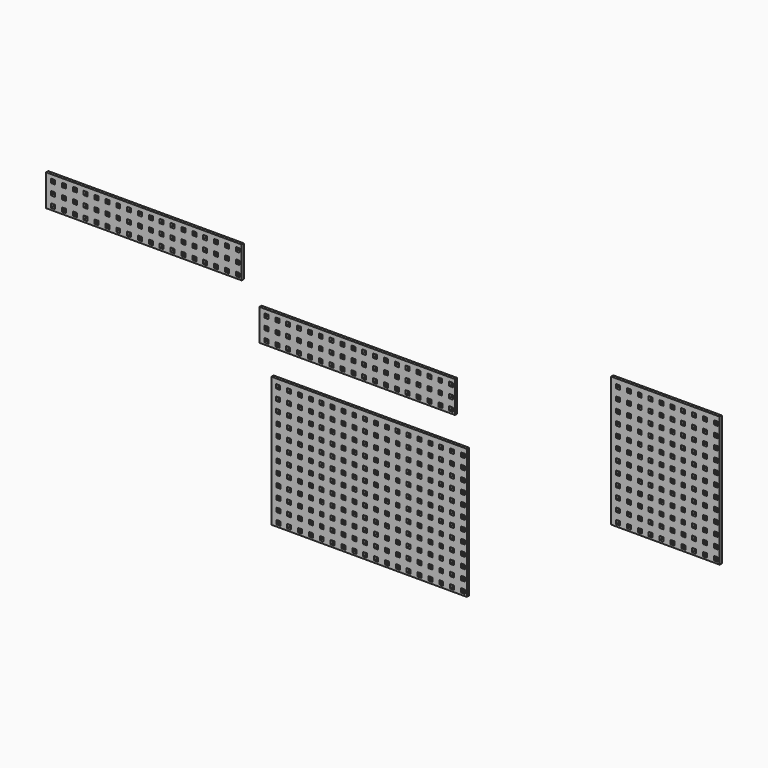
from build123d import *

# Parameters (mm, degrees)
F0_W     = 4.6228
F0_H     = 4.6228
F4_DEPTH = 3.175
F1_W     = 4.6228
F1_H     = 4.6228
F5_DEPTH = 3.175
F2_W     = 4.6228
F2_H     = 4.6228
F6_DEPTH = 3.175
F3_W     = 4.6228
F3_H     = 4.6228
F7_DEPTH = 3.175


with BuildPart() as f4:
    # F0 (on Front) → F4 (new body)
    with BuildSketch(Plane.XZ):
        Polygon((109.6749777227, 75.1479016281), (-0.5864222773, 75.1479016281), (-97.5614, 75.1479016281), (-106.8092222773, 75.1479016281), (-114.8864222773, 75.1479016281), (-114.8864222773, 71.1093016281), (-114.8864222773, -73.2134983719), (-114.8864222773, -77.2520983719), (-110.8478222773, -77.2520983719), (-0.5864222773, -77.2520983719), (113.7135777227, -77.2520983719), (113.7135777227, 75.1479016281), align=None)
        Polygon((-109.0317222773, -70.3178983719), (-104.448610891, -70.3178983719), (-104.4089222773, -70.3178983719), (-104.4089222773, -70.3199), (-104.39908, -70.3199), (-104.39908, -74.9427), (-109.02188, -74.9427), (-109.02188, -74.9406983719), (-109.0317222773, -74.9406983719), (-109.0317222773, -74.8892081406), align=None, mode=Mode.SUBTRACT)
        with Locations((-94.01048, -72.6313)):
            Rectangle(F0_W, F0_H, mode=Mode.SUBTRACT)
        Polygon((-109.071410891, -62.1872065125), (-109.071410891, -57.5644065125), (-104.448610891, -57.5644065125), (-104.448610891, -57.6072), (-104.448610891, -57.6178983719), (-104.4089222773, -57.6178983719), (-104.4089222773, -62.2406983719), (-109.0317222773, -62.2406983719), (-109.0317222773, -62.1872065125), align=None, mode=Mode.SUBTRACT)
        with Locations((-94.0203222773, -59.9292983719)):
            Rectangle(F0_W, F0_H, mode=Mode.SUBTRACT)
        with Locations((-81.31048, -72.6313)):
            Rectangle(F0_W, F0_H, mode=Mode.SUBTRACT)
        with Locations((-68.61048, -72.6313)):
            Rectangle(F0_W, F0_H, mode=Mode.SUBTRACT)
        with Locations((-81.3203222773, -59.9292983719)):
            Rectangle(F0_W, F0_H, mode=Mode.SUBTRACT)
        with Locations((-68.6203222773, -59.9292983719)):
            Rectangle(F0_W, F0_H, mode=Mode.SUBTRACT)
        Polygon((-109.0495022773, -44.9178983719), (-104.4584531682, -44.9178983719), (-104.4267022773, -44.9178983719), (-104.4267022773, -44.9199), (-104.41686, -44.9199), (-104.41686, -49.5427), (-109.03966, -49.5427), (-109.03966, -49.5406983719), (-109.0495022773, -49.5406983719), (-109.0495022773, -49.4999065125), align=None, mode=Mode.SUBTRACT)
        with Locations((-94.02826, -47.2313)):
            Rectangle(F0_W, F0_H, mode=Mode.SUBTRACT)
        with Locations((-81.32826, -47.2313)):
            Rectangle(F0_W, F0_H, mode=Mode.SUBTRACT)
        with Locations((-68.62826, -47.2313)):
            Rectangle(F0_W, F0_H, mode=Mode.SUBTRACT)
        with Locations((-55.91048, -72.6313)):
            Rectangle(F0_W, F0_H, mode=Mode.SUBTRACT)
        with Locations((-43.21048, -72.6313)):
            Rectangle(F0_W, F0_H, mode=Mode.SUBTRACT)
        with Locations((-30.51048, -72.6313)):
            Rectangle(F0_W, F0_H, mode=Mode.SUBTRACT)
        with Locations((-55.9203222773, -59.9292983719)):
            Rectangle(F0_W, F0_H, mode=Mode.SUBTRACT)
        with Locations((-43.2203222773, -59.9292983719)):
            Rectangle(F0_W, F0_H, mode=Mode.SUBTRACT)
        with Locations((-30.5203222773, -59.9292983719)):
            Rectangle(F0_W, F0_H, mode=Mode.SUBTRACT)
        with Locations((-17.81048, -72.6313)):
            Rectangle(F0_W, F0_H, mode=Mode.SUBTRACT)
        with Locations((-5.11048, -72.6313)):
            Rectangle(F0_W, F0_H, mode=Mode.SUBTRACT)
        with Locations((-17.8203222773, -59.9292983719)):
            Rectangle(F0_W, F0_H, mode=Mode.SUBTRACT)
        with Locations((-5.1203222773, -59.9292983719)):
            Rectangle(F0_W, F0_H, mode=Mode.SUBTRACT)
        with Locations((-55.92826, -47.2313)):
            Rectangle(F0_W, F0_H, mode=Mode.SUBTRACT)
        with Locations((-43.22826, -47.2313)):
            Rectangle(F0_W, F0_H, mode=Mode.SUBTRACT)
        with Locations((-30.52826, -47.2313)):
            Rectangle(F0_W, F0_H, mode=Mode.SUBTRACT)
        with Locations((-17.82826, -47.2313)):
            Rectangle(F0_W, F0_H, mode=Mode.SUBTRACT)
        with Locations((-5.12826, -47.2313)):
            Rectangle(F0_W, F0_H, mode=Mode.SUBTRACT)
        Polygon((-109.0812531682, -36.7979048843), (-109.0812531682, -32.1751048843), (-104.4584531682, -32.1751048843), (-104.4584531682, -32.2072), (-104.4584531682, -32.2178983719), (-104.4267022773, -32.2178983719), (-104.4267022773, -36.8406983719), (-109.0495022773, -36.8406983719), (-109.0495022773, -36.7979048843), align=None, mode=Mode.SUBTRACT)
        with Locations((-94.0381022773, -34.5292983719)):
            Rectangle(F0_W, F0_H, mode=Mode.SUBTRACT)
        Polygon((-109.0672822773, -19.5178983719), (-104.4682954455, -19.5178983719), (-104.4444822773, -19.5178983719), (-104.4444822773, -19.5199), (-104.43464, -19.5199), (-104.43464, -24.1427), (-109.05744, -24.1427), (-109.05744, -24.1406983719), (-109.0672822773, -24.1406983719), (-109.0672822773, -24.1106048843), align=None, mode=Mode.SUBTRACT)
        with Locations((-94.04604, -21.8313)):
            Rectangle(F0_W, F0_H, mode=Mode.SUBTRACT)
        with Locations((-81.3381022773, -34.5292983719)):
            Rectangle(F0_W, F0_H, mode=Mode.SUBTRACT)
        with Locations((-68.6381022773, -34.5292983719)):
            Rectangle(F0_W, F0_H, mode=Mode.SUBTRACT)
        with Locations((-81.34604, -21.8313)):
            Rectangle(F0_W, F0_H, mode=Mode.SUBTRACT)
        with Locations((-68.64604, -21.8313)):
            Rectangle(F0_W, F0_H, mode=Mode.SUBTRACT)
        Polygon((-109.0910954455, -11.4086032562), (-109.0910954455, -6.7858032562), (-104.4682954455, -6.7858032562), (-104.4682954455, -6.8072), (-104.4682954455, -6.8178983719), (-104.4444822773, -6.8178983719), (-104.4444822773, -11.4406983719), (-109.0672822773, -11.4406983719), (-109.0672822773, -11.4086032562), align=None, mode=Mode.SUBTRACT)
        with Locations((-94.0558822773, -9.1292983719)):
            Rectangle(F0_W, F0_H, mode=Mode.SUBTRACT)
        with Locations((-81.3558822773, -9.1292983719)):
            Rectangle(F0_W, F0_H, mode=Mode.SUBTRACT)
        with Locations((-68.6558822773, -9.1292983719)):
            Rectangle(F0_W, F0_H, mode=Mode.SUBTRACT)
        with Locations((-55.9381022773, -34.5292983719)):
            Rectangle(F0_W, F0_H, mode=Mode.SUBTRACT)
        with Locations((-43.2381022773, -34.5292983719)):
            Rectangle(F0_W, F0_H, mode=Mode.SUBTRACT)
        with Locations((-30.5381022773, -34.5292983719)):
            Rectangle(F0_W, F0_H, mode=Mode.SUBTRACT)
        with Locations((-55.94604, -21.8313)):
            Rectangle(F0_W, F0_H, mode=Mode.SUBTRACT)
        with Locations((-43.24604, -21.8313)):
            Rectangle(F0_W, F0_H, mode=Mode.SUBTRACT)
        with Locations((-30.54604, -21.8313)):
            Rectangle(F0_W, F0_H, mode=Mode.SUBTRACT)
        with Locations((-17.8381022773, -34.5292983719)):
            Rectangle(F0_W, F0_H, mode=Mode.SUBTRACT)
        with Locations((-5.1381022773, -34.5292983719)):
            Rectangle(F0_W, F0_H, mode=Mode.SUBTRACT)
        with Locations((-17.84604, -21.8313)):
            Rectangle(F0_W, F0_H, mode=Mode.SUBTRACT)
        with Locations((-5.14604, -21.8313)):
            Rectangle(F0_W, F0_H, mode=Mode.SUBTRACT)
        with Locations((-55.9558822773, -9.1292983719)):
            Rectangle(F0_W, F0_H, mode=Mode.SUBTRACT)
        with Locations((-43.2558822773, -9.1292983719)):
            Rectangle(F0_W, F0_H, mode=Mode.SUBTRACT)
        with Locations((-30.5558822773, -9.1292983719)):
            Rectangle(F0_W, F0_H, mode=Mode.SUBTRACT)
        with Locations((-17.8558822773, -9.1292983719)):
            Rectangle(F0_W, F0_H, mode=Mode.SUBTRACT)
        with Locations((-5.1558822773, -9.1292983719)):
            Rectangle(F0_W, F0_H, mode=Mode.SUBTRACT)
        with Locations((7.58952, -72.6313)):
            Rectangle(F0_W, F0_H, mode=Mode.SUBTRACT)
        with Locations((20.28952, -72.6313)):
            Rectangle(F0_W, F0_H, mode=Mode.SUBTRACT)
        with Locations((7.5796777227, -59.9292983719)):
            Rectangle(F0_W, F0_H, mode=Mode.SUBTRACT)
        with Locations((20.2796777227, -59.9292983719)):
            Rectangle(F0_W, F0_H, mode=Mode.SUBTRACT)
        with Locations((32.98952, -72.6313)):
            Rectangle(F0_W, F0_H, mode=Mode.SUBTRACT)
        with Locations((45.68952, -72.6313)):
            Rectangle(F0_W, F0_H, mode=Mode.SUBTRACT)
        with Locations((32.9796777227, -59.9292983719)):
            Rectangle(F0_W, F0_H, mode=Mode.SUBTRACT)
        with Locations((45.6796777227, -59.9292983719)):
            Rectangle(F0_W, F0_H, mode=Mode.SUBTRACT)
        with Locations((7.57174, -47.2313)):
            Rectangle(F0_W, F0_H, mode=Mode.SUBTRACT)
        with Locations((20.27174, -47.2313)):
            Rectangle(F0_W, F0_H, mode=Mode.SUBTRACT)
        with Locations((32.97174, -47.2313)):
            Rectangle(F0_W, F0_H, mode=Mode.SUBTRACT)
        with Locations((45.67174, -47.2313)):
            Rectangle(F0_W, F0_H, mode=Mode.SUBTRACT)
        with Locations((58.38952, -72.6313)):
            Rectangle(F0_W, F0_H, mode=Mode.SUBTRACT)
        with Locations((71.08952, -72.6313)):
            Rectangle(F0_W, F0_H, mode=Mode.SUBTRACT)
        with Locations((83.78952, -72.6313)):
            Rectangle(F0_W, F0_H, mode=Mode.SUBTRACT)
        with Locations((58.3796777227, -59.9292983719)):
            Rectangle(F0_W, F0_H, mode=Mode.SUBTRACT)
        with Locations((71.0796777227, -59.9292983719)):
            Rectangle(F0_W, F0_H, mode=Mode.SUBTRACT)
        with Locations((83.7796777227, -59.9292983719)):
            Rectangle(F0_W, F0_H, mode=Mode.SUBTRACT)
        with Locations((96.48952, -72.6313)):
            Rectangle(F0_W, F0_H, mode=Mode.SUBTRACT)
        with Locations((109.18952, -72.6313)):
            Rectangle(F0_W, F0_H, mode=Mode.SUBTRACT)
        with Locations((96.4796777227, -59.9292983719)):
            Rectangle(F0_W, F0_H, mode=Mode.SUBTRACT)
        with Locations((109.1796777227, -59.9292983719)):
            Rectangle(F0_W, F0_H, mode=Mode.SUBTRACT)
        with Locations((58.37174, -47.2313)):
            Rectangle(F0_W, F0_H, mode=Mode.SUBTRACT)
        with Locations((71.07174, -47.2313)):
            Rectangle(F0_W, F0_H, mode=Mode.SUBTRACT)
        with Locations((83.77174, -47.2313)):
            Rectangle(F0_W, F0_H, mode=Mode.SUBTRACT)
        with Locations((96.47174, -47.2313)):
            Rectangle(F0_W, F0_H, mode=Mode.SUBTRACT)
        with Locations((109.17174, -47.2313)):
            Rectangle(F0_W, F0_H, mode=Mode.SUBTRACT)
        with Locations((7.5618977227, -34.5292983719)):
            Rectangle(F0_W, F0_H, mode=Mode.SUBTRACT)
        with Locations((20.2618977227, -34.5292983719)):
            Rectangle(F0_W, F0_H, mode=Mode.SUBTRACT)
        with Locations((7.55396, -21.8313)):
            Rectangle(F0_W, F0_H, mode=Mode.SUBTRACT)
        with Locations((20.25396, -21.8313)):
            Rectangle(F0_W, F0_H, mode=Mode.SUBTRACT)
        with Locations((32.9618977227, -34.5292983719)):
            Rectangle(F0_W, F0_H, mode=Mode.SUBTRACT)
        with Locations((45.6618977227, -34.5292983719)):
            Rectangle(F0_W, F0_H, mode=Mode.SUBTRACT)
        with Locations((32.95396, -21.8313)):
            Rectangle(F0_W, F0_H, mode=Mode.SUBTRACT)
        with Locations((45.65396, -21.8313)):
            Rectangle(F0_W, F0_H, mode=Mode.SUBTRACT)
        with Locations((7.5441177227, -9.1292983719)):
            Rectangle(F0_W, F0_H, mode=Mode.SUBTRACT)
        with Locations((20.2441177227, -9.1292983719)):
            Rectangle(F0_W, F0_H, mode=Mode.SUBTRACT)
        with Locations((32.9441177227, -9.1292983719)):
            Rectangle(F0_W, F0_H, mode=Mode.SUBTRACT)
        with Locations((45.6441177227, -9.1292983719)):
            Rectangle(F0_W, F0_H, mode=Mode.SUBTRACT)
        with Locations((58.3618977227, -34.5292983719)):
            Rectangle(F0_W, F0_H, mode=Mode.SUBTRACT)
        with Locations((71.0618977227, -34.5292983719)):
            Rectangle(F0_W, F0_H, mode=Mode.SUBTRACT)
        with Locations((83.7618977227, -34.5292983719)):
            Rectangle(F0_W, F0_H, mode=Mode.SUBTRACT)
        with Locations((58.35396, -21.8313)):
            Rectangle(F0_W, F0_H, mode=Mode.SUBTRACT)
        with Locations((71.05396, -21.8313)):
            Rectangle(F0_W, F0_H, mode=Mode.SUBTRACT)
        with Locations((83.75396, -21.8313)):
            Rectangle(F0_W, F0_H, mode=Mode.SUBTRACT)
        with Locations((96.4618977227, -34.5292983719)):
            Rectangle(F0_W, F0_H, mode=Mode.SUBTRACT)
        with Locations((109.1618977227, -34.5292983719)):
            Rectangle(F0_W, F0_H, mode=Mode.SUBTRACT)
        with Locations((96.45396, -21.8313)):
            Rectangle(F0_W, F0_H, mode=Mode.SUBTRACT)
        with Locations((109.15396, -21.8313)):
            Rectangle(F0_W, F0_H, mode=Mode.SUBTRACT)
        with Locations((58.3441177227, -9.1292983719)):
            Rectangle(F0_W, F0_H, mode=Mode.SUBTRACT)
        with Locations((71.0441177227, -9.1292983719)):
            Rectangle(F0_W, F0_H, mode=Mode.SUBTRACT)
        with Locations((83.7441177227, -9.1292983719)):
            Rectangle(F0_W, F0_H, mode=Mode.SUBTRACT)
        with Locations((96.4441177227, -9.1292983719)):
            Rectangle(F0_W, F0_H, mode=Mode.SUBTRACT)
        with Locations((109.1441177227, -9.1292983719)):
            Rectangle(F0_W, F0_H, mode=Mode.SUBTRACT)
        Polygon((-109.0850622773, 5.8821016281), (-104.4781377227, 5.8821016281), (-104.4622622773, 5.8821016281), (-104.4622622773, 5.8801), (-104.45242, 5.8801), (-104.45242, 1.2573), (-109.07522, 1.2573), (-109.07522, 1.2593016281), (-109.0850622773, 1.2593016281), (-109.0850622773, 1.2786967438), align=None, mode=Mode.SUBTRACT)
        with Locations((-94.06382, 3.5687)):
            Rectangle(F0_W, F0_H, mode=Mode.SUBTRACT)
        Polygon((-109.1009377227, 13.9806983719), (-109.1009377227, 18.6034983719), (-104.4781377227, 18.6034983719), (-104.4781377227, 18.5928), (-104.4781377227, 18.5821016281), (-104.4622622773, 18.5821016281), (-104.4622622773, 13.9593016281), (-109.0850622773, 13.9593016281), (-109.0850622773, 13.9806983719), align=None, mode=Mode.SUBTRACT)
        with Locations((-94.0736622773, 16.2707016281)):
            Rectangle(F0_W, F0_H, mode=Mode.SUBTRACT)
        with Locations((-81.36382, 3.5687)):
            Rectangle(F0_W, F0_H, mode=Mode.SUBTRACT)
        with Locations((-68.66382, 3.5687)):
            Rectangle(F0_W, F0_H, mode=Mode.SUBTRACT)
        with Locations((-81.3736622773, 16.2707016281)):
            Rectangle(F0_W, F0_H, mode=Mode.SUBTRACT)
        with Locations((-68.6736622773, 16.2707016281)):
            Rectangle(F0_W, F0_H, mode=Mode.SUBTRACT)
        Polygon((-109.1028422773, 31.2821016281), (-104.48798, 31.2821016281), (-104.4800422773, 31.2821016281), (-104.4800422773, 31.2801), (-104.4702, 31.2801), (-104.4702, 26.6573), (-109.093, 26.6573), (-109.093, 26.6593016281), (-109.1028422773, 26.6593016281), align=None, mode=Mode.SUBTRACT)
        with Locations((-94.0816, 28.9687)):
            Rectangle(F0_W, F0_H, mode=Mode.SUBTRACT)
        with Locations((-81.3816, 28.9687)):
            Rectangle(F0_W, F0_H, mode=Mode.SUBTRACT)
        with Locations((-68.6816, 28.9687)):
            Rectangle(F0_W, F0_H, mode=Mode.SUBTRACT)
        with Locations((-55.96382, 3.5687)):
            Rectangle(F0_W, F0_H, mode=Mode.SUBTRACT)
        with Locations((-43.26382, 3.5687)):
            Rectangle(F0_W, F0_H, mode=Mode.SUBTRACT)
        with Locations((-30.56382, 3.5687)):
            Rectangle(F0_W, F0_H, mode=Mode.SUBTRACT)
        with Locations((-55.9736622773, 16.2707016281)):
            Rectangle(F0_W, F0_H, mode=Mode.SUBTRACT)
        with Locations((-43.2736622773, 16.2707016281)):
            Rectangle(F0_W, F0_H, mode=Mode.SUBTRACT)
        with Locations((-30.5736622773, 16.2707016281)):
            Rectangle(F0_W, F0_H, mode=Mode.SUBTRACT)
        with Locations((-17.86382, 3.5687)):
            Rectangle(F0_W, F0_H, mode=Mode.SUBTRACT)
        with Locations((-5.16382, 3.5687)):
            Rectangle(F0_W, F0_H, mode=Mode.SUBTRACT)
        with Locations((-17.8736622773, 16.2707016281)):
            Rectangle(F0_W, F0_H, mode=Mode.SUBTRACT)
        with Locations((-5.1736622773, 16.2707016281)):
            Rectangle(F0_W, F0_H, mode=Mode.SUBTRACT)
        with Locations((-55.9816, 28.9687)):
            Rectangle(F0_W, F0_H, mode=Mode.SUBTRACT)
        with Locations((-43.2816, 28.9687)):
            Rectangle(F0_W, F0_H, mode=Mode.SUBTRACT)
        with Locations((-30.5816, 28.9687)):
            Rectangle(F0_W, F0_H, mode=Mode.SUBTRACT)
        with Locations((-17.8816, 28.9687)):
            Rectangle(F0_W, F0_H, mode=Mode.SUBTRACT)
        with Locations((-5.1816, 28.9687)):
            Rectangle(F0_W, F0_H, mode=Mode.SUBTRACT)
        Polygon((-109.11078, 39.37), (-109.11078, 43.9928), (-104.48798, 43.9928), (-104.48798, 43.9821016281), (-104.4800422773, 43.9821016281), (-104.4800422773, 39.3593016281), (-109.1028422773, 39.3593016281), (-109.1028422773, 39.37), align=None, mode=Mode.SUBTRACT)
        with Locations((-94.0914422773, 41.6707016281)):
            Rectangle(F0_W, F0_H, mode=Mode.SUBTRACT)
        Polygon((-109.1206222773, 52.0593016281), (-109.1206222773, 56.6821016281), (-104.4978222773, 56.6821016281), (-104.4978222773, 56.6801), (-104.48798, 56.6801), (-104.48798, 52.0573), (-109.11078, 52.0573), (-109.11078, 52.0593016281), align=None, mode=Mode.SUBTRACT)
        with Locations((-94.09938, 54.3687)):
            Rectangle(F0_W, F0_H, mode=Mode.SUBTRACT)
        with Locations((-81.3914422773, 41.6707016281)):
            Rectangle(F0_W, F0_H, mode=Mode.SUBTRACT)
        with Locations((-68.6914422773, 41.6707016281)):
            Rectangle(F0_W, F0_H, mode=Mode.SUBTRACT)
        with Locations((-81.39938, 54.3687)):
            Rectangle(F0_W, F0_H, mode=Mode.SUBTRACT)
        with Locations((-68.69938, 54.3687)):
            Rectangle(F0_W, F0_H, mode=Mode.SUBTRACT)
        with Locations((-106.8092222773, 67.0707016281)):
            Rectangle(F0_W, F0_H, mode=Mode.SUBTRACT)
        with Locations((-94.1092222773, 67.0707016281)):
            Rectangle(F0_W, F0_H, mode=Mode.SUBTRACT)
        with Locations((-81.4092222773, 67.0707016281)):
            Rectangle(F0_W, F0_H, mode=Mode.SUBTRACT)
        with Locations((-68.7092222773, 67.0707016281)):
            Rectangle(F0_W, F0_H, mode=Mode.SUBTRACT)
        with Locations((-55.9914422773, 41.6707016281)):
            Rectangle(F0_W, F0_H, mode=Mode.SUBTRACT)
        with Locations((-43.2914422773, 41.6707016281)):
            Rectangle(F0_W, F0_H, mode=Mode.SUBTRACT)
        with Locations((-30.5914422773, 41.6707016281)):
            Rectangle(F0_W, F0_H, mode=Mode.SUBTRACT)
        with Locations((-55.99938, 54.3687)):
            Rectangle(F0_W, F0_H, mode=Mode.SUBTRACT)
        with Locations((-43.29938, 54.3687)):
            Rectangle(F0_W, F0_H, mode=Mode.SUBTRACT)
        with Locations((-30.59938, 54.3687)):
            Rectangle(F0_W, F0_H, mode=Mode.SUBTRACT)
        with Locations((-17.8914422773, 41.6707016281)):
            Rectangle(F0_W, F0_H, mode=Mode.SUBTRACT)
        with Locations((-5.1914422773, 41.6707016281)):
            Rectangle(F0_W, F0_H, mode=Mode.SUBTRACT)
        with Locations((-17.89938, 54.3687)):
            Rectangle(F0_W, F0_H, mode=Mode.SUBTRACT)
        with Locations((-5.19938, 54.3687)):
            Rectangle(F0_W, F0_H, mode=Mode.SUBTRACT)
        with Locations((-56.0092222773, 67.0707016281)):
            Rectangle(F0_W, F0_H, mode=Mode.SUBTRACT)
        with Locations((-43.3092222773, 67.0707016281)):
            Rectangle(F0_W, F0_H, mode=Mode.SUBTRACT)
        with Locations((-30.6092222773, 67.0707016281)):
            Rectangle(F0_W, F0_H, mode=Mode.SUBTRACT)
        with Locations((-17.9092222773, 67.0707016281)):
            Rectangle(F0_W, F0_H, mode=Mode.SUBTRACT)
        with Locations((-5.2092222773, 67.0707016281)):
            Rectangle(F0_W, F0_H, mode=Mode.SUBTRACT)
        with Locations((7.53618, 3.5687)):
            Rectangle(F0_W, F0_H, mode=Mode.SUBTRACT)
        with Locations((20.23618, 3.5687)):
            Rectangle(F0_W, F0_H, mode=Mode.SUBTRACT)
        with Locations((7.5263377227, 16.2707016281)):
            Rectangle(F0_W, F0_H, mode=Mode.SUBTRACT)
        with Locations((20.2263377227, 16.2707016281)):
            Rectangle(F0_W, F0_H, mode=Mode.SUBTRACT)
        with Locations((32.93618, 3.5687)):
            Rectangle(F0_W, F0_H, mode=Mode.SUBTRACT)
        with Locations((45.63618, 3.5687)):
            Rectangle(F0_W, F0_H, mode=Mode.SUBTRACT)
        with Locations((32.9263377227, 16.2707016281)):
            Rectangle(F0_W, F0_H, mode=Mode.SUBTRACT)
        with Locations((45.6263377227, 16.2707016281)):
            Rectangle(F0_W, F0_H, mode=Mode.SUBTRACT)
        with Locations((7.5184, 28.9687)):
            Rectangle(F0_W, F0_H, mode=Mode.SUBTRACT)
        with Locations((20.2184, 28.9687)):
            Rectangle(F0_W, F0_H, mode=Mode.SUBTRACT)
        with Locations((32.9184, 28.9687)):
            Rectangle(F0_W, F0_H, mode=Mode.SUBTRACT)
        with Locations((45.6184, 28.9687)):
            Rectangle(F0_W, F0_H, mode=Mode.SUBTRACT)
        with Locations((58.33618, 3.5687)):
            Rectangle(F0_W, F0_H, mode=Mode.SUBTRACT)
        with Locations((71.03618, 3.5687)):
            Rectangle(F0_W, F0_H, mode=Mode.SUBTRACT)
        with Locations((83.73618, 3.5687)):
            Rectangle(F0_W, F0_H, mode=Mode.SUBTRACT)
        with Locations((58.3263377227, 16.2707016281)):
            Rectangle(F0_W, F0_H, mode=Mode.SUBTRACT)
        with Locations((71.0263377227, 16.2707016281)):
            Rectangle(F0_W, F0_H, mode=Mode.SUBTRACT)
        with Locations((83.7263377227, 16.2707016281)):
            Rectangle(F0_W, F0_H, mode=Mode.SUBTRACT)
        with Locations((96.43618, 3.5687)):
            Rectangle(F0_W, F0_H, mode=Mode.SUBTRACT)
        with Locations((109.13618, 3.5687)):
            Rectangle(F0_W, F0_H, mode=Mode.SUBTRACT)
        with Locations((96.4263377227, 16.2707016281)):
            Rectangle(F0_W, F0_H, mode=Mode.SUBTRACT)
        with Locations((109.1263377227, 16.2707016281)):
            Rectangle(F0_W, F0_H, mode=Mode.SUBTRACT)
        with Locations((58.3184, 28.9687)):
            Rectangle(F0_W, F0_H, mode=Mode.SUBTRACT)
        with Locations((71.0184, 28.9687)):
            Rectangle(F0_W, F0_H, mode=Mode.SUBTRACT)
        with Locations((83.7184, 28.9687)):
            Rectangle(F0_W, F0_H, mode=Mode.SUBTRACT)
        with Locations((96.4184, 28.9687)):
            Rectangle(F0_W, F0_H, mode=Mode.SUBTRACT)
        with Locations((109.1184, 28.9687)):
            Rectangle(F0_W, F0_H, mode=Mode.SUBTRACT)
        with Locations((7.5085577227, 41.6707016281)):
            Rectangle(F0_W, F0_H, mode=Mode.SUBTRACT)
        with Locations((20.2085577227, 41.6707016281)):
            Rectangle(F0_W, F0_H, mode=Mode.SUBTRACT)
        with Locations((7.50062, 54.3687)):
            Rectangle(F0_W, F0_H, mode=Mode.SUBTRACT)
        with Locations((20.20062, 54.3687)):
            Rectangle(F0_W, F0_H, mode=Mode.SUBTRACT)
        with Locations((32.9085577227, 41.6707016281)):
            Rectangle(F0_W, F0_H, mode=Mode.SUBTRACT)
        with Locations((45.6085577227, 41.6707016281)):
            Rectangle(F0_W, F0_H, mode=Mode.SUBTRACT)
        with Locations((32.90062, 54.3687)):
            Rectangle(F0_W, F0_H, mode=Mode.SUBTRACT)
        with Locations((45.60062, 54.3687)):
            Rectangle(F0_W, F0_H, mode=Mode.SUBTRACT)
        with Locations((7.4907777227, 67.0707016281)):
            Rectangle(F0_W, F0_H, mode=Mode.SUBTRACT)
        with Locations((20.1907777227, 67.0707016281)):
            Rectangle(F0_W, F0_H, mode=Mode.SUBTRACT)
        with Locations((32.8907777227, 67.0707016281)):
            Rectangle(F0_W, F0_H, mode=Mode.SUBTRACT)
        with Locations((45.5907777227, 67.0707016281)):
            Rectangle(F0_W, F0_H, mode=Mode.SUBTRACT)
        with Locations((58.3085577227, 41.6707016281)):
            Rectangle(F0_W, F0_H, mode=Mode.SUBTRACT)
        with Locations((71.0085577227, 41.6707016281)):
            Rectangle(F0_W, F0_H, mode=Mode.SUBTRACT)
        with Locations((83.7085577227, 41.6707016281)):
            Rectangle(F0_W, F0_H, mode=Mode.SUBTRACT)
        with Locations((58.30062, 54.3687)):
            Rectangle(F0_W, F0_H, mode=Mode.SUBTRACT)
        with Locations((71.00062, 54.3687)):
            Rectangle(F0_W, F0_H, mode=Mode.SUBTRACT)
        with Locations((83.70062, 54.3687)):
            Rectangle(F0_W, F0_H, mode=Mode.SUBTRACT)
        with Locations((96.4085577227, 41.6707016281)):
            Rectangle(F0_W, F0_H, mode=Mode.SUBTRACT)
        with Locations((109.1085577227, 41.6707016281)):
            Rectangle(F0_W, F0_H, mode=Mode.SUBTRACT)
        with Locations((96.40062, 54.3687)):
            Rectangle(F0_W, F0_H, mode=Mode.SUBTRACT)
        with Locations((109.10062, 54.3687)):
            Rectangle(F0_W, F0_H, mode=Mode.SUBTRACT)
        with Locations((58.2907777227, 67.0707016281)):
            Rectangle(F0_W, F0_H, mode=Mode.SUBTRACT)
        with Locations((70.9907777227, 67.0707016281)):
            Rectangle(F0_W, F0_H, mode=Mode.SUBTRACT)
        with Locations((83.6907777227, 67.0707016281)):
            Rectangle(F0_W, F0_H, mode=Mode.SUBTRACT)
        with Locations((96.3907777227, 67.0707016281)):
            Rectangle(F0_W, F0_H, mode=Mode.SUBTRACT)
        with Locations((109.0907777227, 67.0707016281)):
            Rectangle(F0_W, F0_H, mode=Mode.SUBTRACT)
    extrude(amount=F4_DEPTH)


with BuildPart() as f5:
    # F1 (on Front) → F5 (new body)
    with BuildSketch(Plane.XZ):
        Polygon((405.2820646157, 204.409342295), (295.0206646157, 204.409342295), (282.3206646157, 204.409342295), (282.3206646157, 52.009342295), (295.0206646157, 52.009342295), (409.3206646157, 52.009342295), (409.3206646157, 204.409342295), align=None)
        with Locations((290.496606893, 56.6301406669)):
            Rectangle(F1_W, F1_H, mode=Mode.SUBTRACT)
        with Locations((290.4867646157, 69.332142295)):
            Rectangle(F1_W, F1_H, mode=Mode.SUBTRACT)
        with Locations((303.196606893, 56.6301406669)):
            Rectangle(F1_W, F1_H, mode=Mode.SUBTRACT)
        with Locations((303.1867646157, 69.332142295)):
            Rectangle(F1_W, F1_H, mode=Mode.SUBTRACT)
        with Locations((290.478826893, 82.0301406669)):
            Rectangle(F1_W, F1_H, mode=Mode.SUBTRACT)
        with Locations((303.178826893, 82.0301406669)):
            Rectangle(F1_W, F1_H, mode=Mode.SUBTRACT)
        with Locations((315.896606893, 56.6301406669)):
            Rectangle(F1_W, F1_H, mode=Mode.SUBTRACT)
        with Locations((328.596606893, 56.6301406669)):
            Rectangle(F1_W, F1_H, mode=Mode.SUBTRACT)
        with Locations((315.8867646157, 69.332142295)):
            Rectangle(F1_W, F1_H, mode=Mode.SUBTRACT)
        with Locations((328.5867646157, 69.332142295)):
            Rectangle(F1_W, F1_H, mode=Mode.SUBTRACT)
        with Locations((341.296606893, 56.6301406669)):
            Rectangle(F1_W, F1_H, mode=Mode.SUBTRACT)
        with Locations((341.2867646157, 69.332142295)):
            Rectangle(F1_W, F1_H, mode=Mode.SUBTRACT)
        with Locations((315.878826893, 82.0301406669)):
            Rectangle(F1_W, F1_H, mode=Mode.SUBTRACT)
        with Locations((328.578826893, 82.0301406669)):
            Rectangle(F1_W, F1_H, mode=Mode.SUBTRACT)
        with Locations((341.278826893, 82.0301406669)):
            Rectangle(F1_W, F1_H, mode=Mode.SUBTRACT)
        with Locations((290.4689846157, 94.732142295)):
            Rectangle(F1_W, F1_H, mode=Mode.SUBTRACT)
        with Locations((290.461046893, 107.4301406669)):
            Rectangle(F1_W, F1_H, mode=Mode.SUBTRACT)
        with Locations((303.1689846157, 94.732142295)):
            Rectangle(F1_W, F1_H, mode=Mode.SUBTRACT)
        with Locations((303.161046893, 107.4301406669)):
            Rectangle(F1_W, F1_H, mode=Mode.SUBTRACT)
        with Locations((290.4512046157, 120.132142295)):
            Rectangle(F1_W, F1_H, mode=Mode.SUBTRACT)
        with Locations((303.1512046157, 120.132142295)):
            Rectangle(F1_W, F1_H, mode=Mode.SUBTRACT)
        with Locations((315.8689846157, 94.732142295)):
            Rectangle(F1_W, F1_H, mode=Mode.SUBTRACT)
        with Locations((328.5689846157, 94.732142295)):
            Rectangle(F1_W, F1_H, mode=Mode.SUBTRACT)
        with Locations((315.861046893, 107.4301406669)):
            Rectangle(F1_W, F1_H, mode=Mode.SUBTRACT)
        with Locations((328.561046893, 107.4301406669)):
            Rectangle(F1_W, F1_H, mode=Mode.SUBTRACT)
        with Locations((341.2689846157, 94.732142295)):
            Rectangle(F1_W, F1_H, mode=Mode.SUBTRACT)
        with Locations((341.261046893, 107.4301406669)):
            Rectangle(F1_W, F1_H, mode=Mode.SUBTRACT)
        with Locations((315.8512046157, 120.132142295)):
            Rectangle(F1_W, F1_H, mode=Mode.SUBTRACT)
        with Locations((328.5512046157, 120.132142295)):
            Rectangle(F1_W, F1_H, mode=Mode.SUBTRACT)
        with Locations((341.2512046157, 120.132142295)):
            Rectangle(F1_W, F1_H, mode=Mode.SUBTRACT)
        with Locations((353.996606893, 56.6301406669)):
            Rectangle(F1_W, F1_H, mode=Mode.SUBTRACT)
        with Locations((353.9867646157, 69.332142295)):
            Rectangle(F1_W, F1_H, mode=Mode.SUBTRACT)
        with Locations((366.696606893, 56.6301406669)):
            Rectangle(F1_W, F1_H, mode=Mode.SUBTRACT)
        with Locations((366.6867646157, 69.332142295)):
            Rectangle(F1_W, F1_H, mode=Mode.SUBTRACT)
        with Locations((353.978826893, 82.0301406669)):
            Rectangle(F1_W, F1_H, mode=Mode.SUBTRACT)
        with Locations((366.678826893, 82.0301406669)):
            Rectangle(F1_W, F1_H, mode=Mode.SUBTRACT)
        with Locations((379.396606893, 56.6301406669)):
            Rectangle(F1_W, F1_H, mode=Mode.SUBTRACT)
        with Locations((392.096606893, 56.6301406669)):
            Rectangle(F1_W, F1_H, mode=Mode.SUBTRACT)
        with Locations((379.3867646157, 69.332142295)):
            Rectangle(F1_W, F1_H, mode=Mode.SUBTRACT)
        with Locations((392.0867646157, 69.332142295)):
            Rectangle(F1_W, F1_H, mode=Mode.SUBTRACT)
        with Locations((404.796606893, 56.6301406669)):
            Rectangle(F1_W, F1_H, mode=Mode.SUBTRACT)
        with Locations((404.7867646157, 69.332142295)):
            Rectangle(F1_W, F1_H, mode=Mode.SUBTRACT)
        with Locations((379.378826893, 82.0301406669)):
            Rectangle(F1_W, F1_H, mode=Mode.SUBTRACT)
        with Locations((392.078826893, 82.0301406669)):
            Rectangle(F1_W, F1_H, mode=Mode.SUBTRACT)
        with Locations((404.778826893, 82.0301406669)):
            Rectangle(F1_W, F1_H, mode=Mode.SUBTRACT)
        with Locations((353.9689846157, 94.732142295)):
            Rectangle(F1_W, F1_H, mode=Mode.SUBTRACT)
        with Locations((353.961046893, 107.4301406669)):
            Rectangle(F1_W, F1_H, mode=Mode.SUBTRACT)
        with Locations((366.6689846157, 94.732142295)):
            Rectangle(F1_W, F1_H, mode=Mode.SUBTRACT)
        with Locations((366.661046893, 107.4301406669)):
            Rectangle(F1_W, F1_H, mode=Mode.SUBTRACT)
        with Locations((353.9512046157, 120.132142295)):
            Rectangle(F1_W, F1_H, mode=Mode.SUBTRACT)
        with Locations((366.6512046157, 120.132142295)):
            Rectangle(F1_W, F1_H, mode=Mode.SUBTRACT)
        with Locations((379.3689846157, 94.732142295)):
            Rectangle(F1_W, F1_H, mode=Mode.SUBTRACT)
        with Locations((392.0689846157, 94.732142295)):
            Rectangle(F1_W, F1_H, mode=Mode.SUBTRACT)
        with Locations((379.361046893, 107.4301406669)):
            Rectangle(F1_W, F1_H, mode=Mode.SUBTRACT)
        with Locations((392.061046893, 107.4301406669)):
            Rectangle(F1_W, F1_H, mode=Mode.SUBTRACT)
        with Locations((404.7689846157, 94.732142295)):
            Rectangle(F1_W, F1_H, mode=Mode.SUBTRACT)
        with Locations((404.761046893, 107.4301406669)):
            Rectangle(F1_W, F1_H, mode=Mode.SUBTRACT)
        with Locations((379.3512046157, 120.132142295)):
            Rectangle(F1_W, F1_H, mode=Mode.SUBTRACT)
        with Locations((392.0512046157, 120.132142295)):
            Rectangle(F1_W, F1_H, mode=Mode.SUBTRACT)
        with Locations((404.7512046157, 120.132142295)):
            Rectangle(F1_W, F1_H, mode=Mode.SUBTRACT)
        with Locations((290.443266893, 132.8301406669)):
            Rectangle(F1_W, F1_H, mode=Mode.SUBTRACT)
        with Locations((290.4334246157, 145.532142295)):
            Rectangle(F1_W, F1_H, mode=Mode.SUBTRACT)
        with Locations((303.143266893, 132.8301406669)):
            Rectangle(F1_W, F1_H, mode=Mode.SUBTRACT)
        with Locations((303.1334246157, 145.532142295)):
            Rectangle(F1_W, F1_H, mode=Mode.SUBTRACT)
        with Locations((290.425486893, 158.2301406669)):
            Rectangle(F1_W, F1_H, mode=Mode.SUBTRACT)
        with Locations((303.125486893, 158.2301406669)):
            Rectangle(F1_W, F1_H, mode=Mode.SUBTRACT)
        with Locations((315.843266893, 132.8301406669)):
            Rectangle(F1_W, F1_H, mode=Mode.SUBTRACT)
        with Locations((328.543266893, 132.8301406669)):
            Rectangle(F1_W, F1_H, mode=Mode.SUBTRACT)
        with Locations((315.8334246157, 145.532142295)):
            Rectangle(F1_W, F1_H, mode=Mode.SUBTRACT)
        with Locations((328.5334246157, 145.532142295)):
            Rectangle(F1_W, F1_H, mode=Mode.SUBTRACT)
        with Locations((341.243266893, 132.8301406669)):
            Rectangle(F1_W, F1_H, mode=Mode.SUBTRACT)
        with Locations((341.2334246157, 145.532142295)):
            Rectangle(F1_W, F1_H, mode=Mode.SUBTRACT)
        with Locations((315.825486893, 158.2301406669)):
            Rectangle(F1_W, F1_H, mode=Mode.SUBTRACT)
        with Locations((328.525486893, 158.2301406669)):
            Rectangle(F1_W, F1_H, mode=Mode.SUBTRACT)
        with Locations((341.225486893, 158.2301406669)):
            Rectangle(F1_W, F1_H, mode=Mode.SUBTRACT)
        with Locations((290.4156446157, 170.932142295)):
            Rectangle(F1_W, F1_H, mode=Mode.SUBTRACT)
        with Locations((290.407706893, 183.6301406669)):
            Rectangle(F1_W, F1_H, mode=Mode.SUBTRACT)
        with Locations((303.1156446157, 170.932142295)):
            Rectangle(F1_W, F1_H, mode=Mode.SUBTRACT)
        with Locations((303.107706893, 183.6301406669)):
            Rectangle(F1_W, F1_H, mode=Mode.SUBTRACT)
        with Locations((290.3978646157, 196.332142295)):
            Rectangle(F1_W, F1_H, mode=Mode.SUBTRACT)
        with Locations((303.0978646157, 196.332142295)):
            Rectangle(F1_W, F1_H, mode=Mode.SUBTRACT)
        with Locations((315.8156446157, 170.932142295)):
            Rectangle(F1_W, F1_H, mode=Mode.SUBTRACT)
        with Locations((328.5156446157, 170.932142295)):
            Rectangle(F1_W, F1_H, mode=Mode.SUBTRACT)
        with Locations((315.807706893, 183.6301406669)):
            Rectangle(F1_W, F1_H, mode=Mode.SUBTRACT)
        with Locations((328.507706893, 183.6301406669)):
            Rectangle(F1_W, F1_H, mode=Mode.SUBTRACT)
        with Locations((341.2156446157, 170.932142295)):
            Rectangle(F1_W, F1_H, mode=Mode.SUBTRACT)
        with Locations((341.207706893, 183.6301406669)):
            Rectangle(F1_W, F1_H, mode=Mode.SUBTRACT)
        with Locations((315.7978646157, 196.332142295)):
            Rectangle(F1_W, F1_H, mode=Mode.SUBTRACT)
        with Locations((328.4978646157, 196.332142295)):
            Rectangle(F1_W, F1_H, mode=Mode.SUBTRACT)
        with Locations((341.1978646157, 196.332142295)):
            Rectangle(F1_W, F1_H, mode=Mode.SUBTRACT)
        with Locations((353.943266893, 132.8301406669)):
            Rectangle(F1_W, F1_H, mode=Mode.SUBTRACT)
        with Locations((353.9334246157, 145.532142295)):
            Rectangle(F1_W, F1_H, mode=Mode.SUBTRACT)
        with Locations((366.643266893, 132.8301406669)):
            Rectangle(F1_W, F1_H, mode=Mode.SUBTRACT)
        with Locations((366.6334246157, 145.532142295)):
            Rectangle(F1_W, F1_H, mode=Mode.SUBTRACT)
        with Locations((353.925486893, 158.2301406669)):
            Rectangle(F1_W, F1_H, mode=Mode.SUBTRACT)
        with Locations((366.625486893, 158.2301406669)):
            Rectangle(F1_W, F1_H, mode=Mode.SUBTRACT)
        with Locations((379.343266893, 132.8301406669)):
            Rectangle(F1_W, F1_H, mode=Mode.SUBTRACT)
        with Locations((392.043266893, 132.8301406669)):
            Rectangle(F1_W, F1_H, mode=Mode.SUBTRACT)
        with Locations((379.3334246157, 145.532142295)):
            Rectangle(F1_W, F1_H, mode=Mode.SUBTRACT)
        with Locations((392.0334246157, 145.532142295)):
            Rectangle(F1_W, F1_H, mode=Mode.SUBTRACT)
        with Locations((404.743266893, 132.8301406669)):
            Rectangle(F1_W, F1_H, mode=Mode.SUBTRACT)
        with Locations((404.7334246157, 145.532142295)):
            Rectangle(F1_W, F1_H, mode=Mode.SUBTRACT)
        with Locations((379.325486893, 158.2301406669)):
            Rectangle(F1_W, F1_H, mode=Mode.SUBTRACT)
        with Locations((392.025486893, 158.2301406669)):
            Rectangle(F1_W, F1_H, mode=Mode.SUBTRACT)
        with Locations((404.725486893, 158.2301406669)):
            Rectangle(F1_W, F1_H, mode=Mode.SUBTRACT)
        with Locations((353.9156446157, 170.932142295)):
            Rectangle(F1_W, F1_H, mode=Mode.SUBTRACT)
        with Locations((353.907706893, 183.6301406669)):
            Rectangle(F1_W, F1_H, mode=Mode.SUBTRACT)
        with Locations((366.6156446157, 170.932142295)):
            Rectangle(F1_W, F1_H, mode=Mode.SUBTRACT)
        with Locations((366.607706893, 183.6301406669)):
            Rectangle(F1_W, F1_H, mode=Mode.SUBTRACT)
        with Locations((353.8978646157, 196.332142295)):
            Rectangle(F1_W, F1_H, mode=Mode.SUBTRACT)
        with Locations((366.5978646157, 196.332142295)):
            Rectangle(F1_W, F1_H, mode=Mode.SUBTRACT)
        with Locations((379.3156446157, 170.932142295)):
            Rectangle(F1_W, F1_H, mode=Mode.SUBTRACT)
        with Locations((392.0156446157, 170.932142295)):
            Rectangle(F1_W, F1_H, mode=Mode.SUBTRACT)
        with Locations((379.307706893, 183.6301406669)):
            Rectangle(F1_W, F1_H, mode=Mode.SUBTRACT)
        with Locations((392.007706893, 183.6301406669)):
            Rectangle(F1_W, F1_H, mode=Mode.SUBTRACT)
        with Locations((404.7156446157, 170.932142295)):
            Rectangle(F1_W, F1_H, mode=Mode.SUBTRACT)
        with Locations((404.707706893, 183.6301406669)):
            Rectangle(F1_W, F1_H, mode=Mode.SUBTRACT)
        with Locations((379.2978646157, 196.332142295)):
            Rectangle(F1_W, F1_H, mode=Mode.SUBTRACT)
        with Locations((391.9978646157, 196.332142295)):
            Rectangle(F1_W, F1_H, mode=Mode.SUBTRACT)
        with Locations((404.6978646157, 196.332142295)):
            Rectangle(F1_W, F1_H, mode=Mode.SUBTRACT)
    extrude(amount=F5_DEPTH)


with BuildPart() as f6:
    # F2 (on Front) → F6 (new body)
    with BuildSketch(Plane.XZ):
        Polygon((-374.1245290913, 162.852678229), (-263.8631290913, 162.852678229), (-149.5631290913, 162.852678229), (-149.5631290913, 199.814915657), (-378.1631290913, 199.814915657), (-378.1631290913, 166.891278229), (-378.1631290913, 162.852678229), align=None)
        Polygon((-372.3084290913, 169.786878229), (-367.725317705, 169.786878229), (-367.6856290913, 169.786878229), (-367.6856290913, 169.7848766009), (-367.675786814, 169.7848766009), (-367.675786814, 165.1620766009), (-372.298586814, 165.1620766009), (-372.298586814, 165.164078229), (-372.3084290913, 165.164078229), (-372.3084290913, 165.2155684603), align=None, mode=Mode.SUBTRACT)
        with Locations((-357.287186814, 167.4734766009)):
            Rectangle(F2_W, F2_H, mode=Mode.SUBTRACT)
        with Locations((-344.587186814, 167.4734766009)):
            Rectangle(F2_W, F2_H, mode=Mode.SUBTRACT)
        with Locations((-331.887186814, 167.4734766009)):
            Rectangle(F2_W, F2_H, mode=Mode.SUBTRACT)
        with Locations((-319.187186814, 167.4734766009)):
            Rectangle(F2_W, F2_H, mode=Mode.SUBTRACT)
        with Locations((-306.487186814, 167.4734766009)):
            Rectangle(F2_W, F2_H, mode=Mode.SUBTRACT)
        with Locations((-293.787186814, 167.4734766009)):
            Rectangle(F2_W, F2_H, mode=Mode.SUBTRACT)
        with Locations((-281.087186814, 167.4734766009)):
            Rectangle(F2_W, F2_H, mode=Mode.SUBTRACT)
        with Locations((-268.387186814, 167.4734766009)):
            Rectangle(F2_W, F2_H, mode=Mode.SUBTRACT)
        Polygon((-372.348117705, 177.9175700884), (-372.348117705, 182.5403700884), (-367.725317705, 182.5403700884), (-367.725317705, 182.4975766009), (-367.725317705, 182.486878229), (-367.6856290913, 182.486878229), (-367.6856290913, 177.864078229), (-372.3084290913, 177.864078229), (-372.3084290913, 177.9175700884), align=None, mode=Mode.SUBTRACT)
        with Locations((-357.2970290913, 180.175478229)):
            Rectangle(F2_W, F2_H, mode=Mode.SUBTRACT)
        with Locations((-344.5970290913, 180.175478229)):
            Rectangle(F2_W, F2_H, mode=Mode.SUBTRACT)
        with Locations((-331.8970290913, 180.175478229)):
            Rectangle(F2_W, F2_H, mode=Mode.SUBTRACT)
        with Locations((-319.1970290913, 180.175478229)):
            Rectangle(F2_W, F2_H, mode=Mode.SUBTRACT)
        with Locations((-306.4970290913, 180.175478229)):
            Rectangle(F2_W, F2_H, mode=Mode.SUBTRACT)
        with Locations((-293.7970290913, 180.175478229)):
            Rectangle(F2_W, F2_H, mode=Mode.SUBTRACT)
        with Locations((-281.0970290913, 180.175478229)):
            Rectangle(F2_W, F2_H, mode=Mode.SUBTRACT)
        with Locations((-268.3970290913, 180.175478229)):
            Rectangle(F2_W, F2_H, mode=Mode.SUBTRACT)
        with Locations((-255.687186814, 167.4734766009)):
            Rectangle(F2_W, F2_H, mode=Mode.SUBTRACT)
        with Locations((-242.987186814, 167.4734766009)):
            Rectangle(F2_W, F2_H, mode=Mode.SUBTRACT)
        with Locations((-230.287186814, 167.4734766009)):
            Rectangle(F2_W, F2_H, mode=Mode.SUBTRACT)
        with Locations((-217.587186814, 167.4734766009)):
            Rectangle(F2_W, F2_H, mode=Mode.SUBTRACT)
        with Locations((-204.887186814, 167.4734766009)):
            Rectangle(F2_W, F2_H, mode=Mode.SUBTRACT)
        with Locations((-192.187186814, 167.4734766009)):
            Rectangle(F2_W, F2_H, mode=Mode.SUBTRACT)
        with Locations((-179.487186814, 167.4734766009)):
            Rectangle(F2_W, F2_H, mode=Mode.SUBTRACT)
        with Locations((-166.787186814, 167.4734766009)):
            Rectangle(F2_W, F2_H, mode=Mode.SUBTRACT)
        with Locations((-154.087186814, 167.4734766009)):
            Rectangle(F2_W, F2_H, mode=Mode.SUBTRACT)
        with Locations((-255.6970290913, 180.175478229)):
            Rectangle(F2_W, F2_H, mode=Mode.SUBTRACT)
        with Locations((-242.9970290913, 180.175478229)):
            Rectangle(F2_W, F2_H, mode=Mode.SUBTRACT)
        with Locations((-230.2970290913, 180.175478229)):
            Rectangle(F2_W, F2_H, mode=Mode.SUBTRACT)
        with Locations((-217.5970290913, 180.175478229)):
            Rectangle(F2_W, F2_H, mode=Mode.SUBTRACT)
        with Locations((-204.8970290913, 180.175478229)):
            Rectangle(F2_W, F2_H, mode=Mode.SUBTRACT)
        with Locations((-192.1970290913, 180.175478229)):
            Rectangle(F2_W, F2_H, mode=Mode.SUBTRACT)
        with Locations((-179.4970290913, 180.175478229)):
            Rectangle(F2_W, F2_H, mode=Mode.SUBTRACT)
        with Locations((-166.7970290913, 180.175478229)):
            Rectangle(F2_W, F2_H, mode=Mode.SUBTRACT)
        with Locations((-154.0970290913, 180.175478229)):
            Rectangle(F2_W, F2_H, mode=Mode.SUBTRACT)
        Polygon((-372.3262090913, 195.186878229), (-367.7351599822, 195.186878229), (-367.7034090913, 195.186878229), (-367.7034090913, 195.1848766009), (-367.693566814, 195.1848766009), (-367.693566814, 190.5620766009), (-372.316366814, 190.5620766009), (-372.316366814, 190.564078229), (-372.3262090913, 190.564078229), (-372.3262090913, 190.6048700884), align=None, mode=Mode.SUBTRACT)
        with Locations((-357.304966814, 192.8734766009)):
            Rectangle(F2_W, F2_H, mode=Mode.SUBTRACT)
        with Locations((-344.604966814, 192.8734766009)):
            Rectangle(F2_W, F2_H, mode=Mode.SUBTRACT)
        with Locations((-331.904966814, 192.8734766009)):
            Rectangle(F2_W, F2_H, mode=Mode.SUBTRACT)
        with Locations((-319.204966814, 192.8734766009)):
            Rectangle(F2_W, F2_H, mode=Mode.SUBTRACT)
        with Locations((-306.504966814, 192.8734766009)):
            Rectangle(F2_W, F2_H, mode=Mode.SUBTRACT)
        with Locations((-293.804966814, 192.8734766009)):
            Rectangle(F2_W, F2_H, mode=Mode.SUBTRACT)
        with Locations((-281.104966814, 192.8734766009)):
            Rectangle(F2_W, F2_H, mode=Mode.SUBTRACT)
        with Locations((-268.404966814, 192.8734766009)):
            Rectangle(F2_W, F2_H, mode=Mode.SUBTRACT)
        with Locations((-255.704966814, 192.8734766009)):
            Rectangle(F2_W, F2_H, mode=Mode.SUBTRACT)
        with Locations((-243.004966814, 192.8734766009)):
            Rectangle(F2_W, F2_H, mode=Mode.SUBTRACT)
        with Locations((-230.304966814, 192.8734766009)):
            Rectangle(F2_W, F2_H, mode=Mode.SUBTRACT)
        with Locations((-217.604966814, 192.8734766009)):
            Rectangle(F2_W, F2_H, mode=Mode.SUBTRACT)
        with Locations((-204.904966814, 192.8734766009)):
            Rectangle(F2_W, F2_H, mode=Mode.SUBTRACT)
        with Locations((-192.204966814, 192.8734766009)):
            Rectangle(F2_W, F2_H, mode=Mode.SUBTRACT)
        with Locations((-179.504966814, 192.8734766009)):
            Rectangle(F2_W, F2_H, mode=Mode.SUBTRACT)
        with Locations((-166.804966814, 192.8734766009)):
            Rectangle(F2_W, F2_H, mode=Mode.SUBTRACT)
        with Locations((-154.104966814, 192.8734766009)):
            Rectangle(F2_W, F2_H, mode=Mode.SUBTRACT)
    extrude(amount=F6_DEPTH)


with BuildPart() as f7:
    # F3 (on Front) → F7 (new body)
    with BuildSketch(Plane.XZ):
        Polygon((-124.7047831791, 105.4452687474), (-14.4433831791, 105.4452687474), (99.8566168209, 105.4452687474), (99.8566168209, 142.4075061755), (-128.7433831791, 142.4075061755), (-128.7433831791, 109.4838687474), (-128.7433831791, 105.4452687474), align=None)
        Polygon((-122.8886831791, 112.3794687474), (-118.3055717928, 112.3794687474), (-118.2658831791, 112.3794687474), (-118.2658831791, 112.3774671193), (-118.2560409018, 112.3774671193), (-118.2560409018, 107.7546671193), (-122.8788409018, 107.7546671193), (-122.8788409018, 107.7566687474), (-122.8886831791, 107.7566687474), (-122.8886831791, 107.8081589787), align=None, mode=Mode.SUBTRACT)
        with Locations((-107.8674409018, 110.0660671193)):
            Rectangle(F3_W, F3_H, mode=Mode.SUBTRACT)
        with Locations((-95.1674409018, 110.0660671193)):
            Rectangle(F3_W, F3_H, mode=Mode.SUBTRACT)
        with Locations((-82.4674409018, 110.0660671193)):
            Rectangle(F3_W, F3_H, mode=Mode.SUBTRACT)
        with Locations((-69.7674409018, 110.0660671193)):
            Rectangle(F3_W, F3_H, mode=Mode.SUBTRACT)
        with Locations((-57.0674409018, 110.0660671193)):
            Rectangle(F3_W, F3_H, mode=Mode.SUBTRACT)
        with Locations((-44.3674409018, 110.0660671193)):
            Rectangle(F3_W, F3_H, mode=Mode.SUBTRACT)
        with Locations((-31.6674409018, 110.0660671193)):
            Rectangle(F3_W, F3_H, mode=Mode.SUBTRACT)
        with Locations((-18.9674409018, 110.0660671193)):
            Rectangle(F3_W, F3_H, mode=Mode.SUBTRACT)
        Polygon((-122.9283717928, 120.5101606068), (-122.9283717928, 125.1329606068), (-118.3055717928, 125.1329606068), (-118.3055717928, 125.0901671193), (-118.3055717928, 125.0794687474), (-118.2658831791, 125.0794687474), (-118.2658831791, 120.4566687474), (-122.8886831791, 120.4566687474), (-122.8886831791, 120.5101606068), align=None, mode=Mode.SUBTRACT)
        with Locations((-107.8772831791, 122.7680687474)):
            Rectangle(F3_W, F3_H, mode=Mode.SUBTRACT)
        with Locations((-95.1772831791, 122.7680687474)):
            Rectangle(F3_W, F3_H, mode=Mode.SUBTRACT)
        with Locations((-82.4772831791, 122.7680687474)):
            Rectangle(F3_W, F3_H, mode=Mode.SUBTRACT)
        with Locations((-69.7772831791, 122.7680687474)):
            Rectangle(F3_W, F3_H, mode=Mode.SUBTRACT)
        with Locations((-57.0772831791, 122.7680687474)):
            Rectangle(F3_W, F3_H, mode=Mode.SUBTRACT)
        with Locations((-44.3772831791, 122.7680687474)):
            Rectangle(F3_W, F3_H, mode=Mode.SUBTRACT)
        with Locations((-31.6772831791, 122.7680687474)):
            Rectangle(F3_W, F3_H, mode=Mode.SUBTRACT)
        with Locations((-18.9772831791, 122.7680687474)):
            Rectangle(F3_W, F3_H, mode=Mode.SUBTRACT)
        with Locations((-6.2674409018, 110.0660671193)):
            Rectangle(F3_W, F3_H, mode=Mode.SUBTRACT)
        with Locations((6.4325590982, 110.0660671193)):
            Rectangle(F3_W, F3_H, mode=Mode.SUBTRACT)
        with Locations((19.1325590982, 110.0660671193)):
            Rectangle(F3_W, F3_H, mode=Mode.SUBTRACT)
        with Locations((31.8325590982, 110.0660671193)):
            Rectangle(F3_W, F3_H, mode=Mode.SUBTRACT)
        with Locations((44.5325590982, 110.0660671193)):
            Rectangle(F3_W, F3_H, mode=Mode.SUBTRACT)
        with Locations((57.2325590982, 110.0660671193)):
            Rectangle(F3_W, F3_H, mode=Mode.SUBTRACT)
        with Locations((69.9325590982, 110.0660671193)):
            Rectangle(F3_W, F3_H, mode=Mode.SUBTRACT)
        with Locations((82.6325590982, 110.0660671193)):
            Rectangle(F3_W, F3_H, mode=Mode.SUBTRACT)
        with Locations((95.3325590982, 110.0660671193)):
            Rectangle(F3_W, F3_H, mode=Mode.SUBTRACT)
        with Locations((-6.2772831791, 122.7680687474)):
            Rectangle(F3_W, F3_H, mode=Mode.SUBTRACT)
        with Locations((6.4227168209, 122.7680687474)):
            Rectangle(F3_W, F3_H, mode=Mode.SUBTRACT)
        with Locations((19.1227168209, 122.7680687474)):
            Rectangle(F3_W, F3_H, mode=Mode.SUBTRACT)
        with Locations((31.8227168209, 122.7680687474)):
            Rectangle(F3_W, F3_H, mode=Mode.SUBTRACT)
        with Locations((44.5227168209, 122.7680687474)):
            Rectangle(F3_W, F3_H, mode=Mode.SUBTRACT)
        with Locations((57.2227168209, 122.7680687474)):
            Rectangle(F3_W, F3_H, mode=Mode.SUBTRACT)
        with Locations((69.9227168209, 122.7680687474)):
            Rectangle(F3_W, F3_H, mode=Mode.SUBTRACT)
        with Locations((82.6227168209, 122.7680687474)):
            Rectangle(F3_W, F3_H, mode=Mode.SUBTRACT)
        with Locations((95.3227168209, 122.7680687474)):
            Rectangle(F3_W, F3_H, mode=Mode.SUBTRACT)
        Polygon((-122.9064631791, 137.7794687474), (-118.3154140701, 137.7794687474), (-118.2836631791, 137.7794687474), (-118.2836631791, 137.7774671193), (-118.2738209018, 137.7774671193), (-118.2738209018, 133.1546671193), (-122.8966209018, 133.1546671193), (-122.8966209018, 133.1566687474), (-122.9064631791, 133.1566687474), (-122.9064631791, 133.1974606068), align=None, mode=Mode.SUBTRACT)
        with Locations((-107.8852209018, 135.4660671193)):
            Rectangle(F3_W, F3_H, mode=Mode.SUBTRACT)
        with Locations((-95.1852209018, 135.4660671193)):
            Rectangle(F3_W, F3_H, mode=Mode.SUBTRACT)
        with Locations((-82.4852209018, 135.4660671193)):
            Rectangle(F3_W, F3_H, mode=Mode.SUBTRACT)
        with Locations((-69.7852209018, 135.4660671193)):
            Rectangle(F3_W, F3_H, mode=Mode.SUBTRACT)
        with Locations((-57.0852209018, 135.4660671193)):
            Rectangle(F3_W, F3_H, mode=Mode.SUBTRACT)
        with Locations((-44.3852209018, 135.4660671193)):
            Rectangle(F3_W, F3_H, mode=Mode.SUBTRACT)
        with Locations((-31.6852209018, 135.4660671193)):
            Rectangle(F3_W, F3_H, mode=Mode.SUBTRACT)
        with Locations((-18.9852209018, 135.4660671193)):
            Rectangle(F3_W, F3_H, mode=Mode.SUBTRACT)
        with Locations((-6.2852209018, 135.4660671193)):
            Rectangle(F3_W, F3_H, mode=Mode.SUBTRACT)
        with Locations((6.4147790982, 135.4660671193)):
            Rectangle(F3_W, F3_H, mode=Mode.SUBTRACT)
        with Locations((19.1147790982, 135.4660671193)):
            Rectangle(F3_W, F3_H, mode=Mode.SUBTRACT)
        with Locations((31.8147790982, 135.4660671193)):
            Rectangle(F3_W, F3_H, mode=Mode.SUBTRACT)
        with Locations((44.5147790982, 135.4660671193)):
            Rectangle(F3_W, F3_H, mode=Mode.SUBTRACT)
        with Locations((57.2147790982, 135.4660671193)):
            Rectangle(F3_W, F3_H, mode=Mode.SUBTRACT)
        with Locations((69.9147790982, 135.4660671193)):
            Rectangle(F3_W, F3_H, mode=Mode.SUBTRACT)
        with Locations((82.6147790982, 135.4660671193)):
            Rectangle(F3_W, F3_H, mode=Mode.SUBTRACT)
        with Locations((95.3147790982, 135.4660671193)):
            Rectangle(F3_W, F3_H, mode=Mode.SUBTRACT)
    extrude(amount=F7_DEPTH)


solid = Compound([f4.part, f5.part, f6.part, f7.part])
